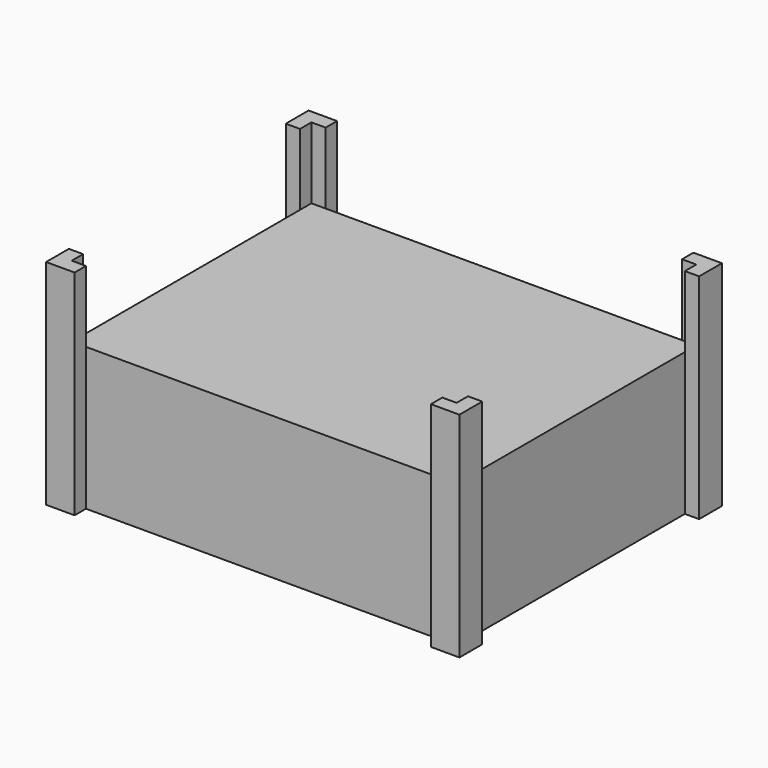
from build123d import *

# Parameters (mm, degrees)
F0_W     = 68.6
F0_H     = 53.4
F1_DEPTH = 25.4
F3_DEPTH = 38.1
F4_DEPTH = 38.1
F7_W     = 59.71
F7_H     = 48.32
F8_DEPTH = 20.32
F9_D     = 2.8448
F9_DEPTH = 9.525
F9_TIP   = 0.8546641445


with BuildPart() as f1:
    # F0 (on Top) → F1 (new body)
    with BuildSketch(Plane.XY):
        with Locations((-1.4553847134, -11.8884605348)):
            Rectangle(F0_W, F0_H)
    extrude(amount=F1_DEPTH)

    # F2 (on face) → F3 (join)
    with BuildSketch(Plane(origin=(0, 0, 0), x_dir=(1, 0, 0), z_dir=(0, 0, -1))):
        Polygon((-35.7553847134, 38.5884605348), (-33.2153847134, 38.5884605348), (-33.2153847134, 41.1284605348), (-38.2953847134, 41.1284605348), (-38.2953847134, 36.0484605348), (-35.7553847134, 36.0484605348), align=None)
    extrude(amount=-F3_DEPTH)

    # F2 (on face) → F4 (join)
    with BuildSketch(Plane(origin=(0, 0, 0), x_dir=(1, 0, 0), z_dir=(0, 0, -1))):
        Polygon((30.3046152866, 41.1284605348), (30.3046152866, 38.5884605348), (32.8446152866, 38.5884605348), (32.8446152866, 36.0484605348), (35.3846152866, 36.0484605348), (35.3846152866, 41.1284605348), align=None)
        Polygon((-35.7553847134, -14.8115394652), (-35.7553847134, -12.2715394652), (-38.2953847134, -12.2715394652), (-38.2953847134, -17.3515394652), (-33.2153847134, -17.3515394652), (-33.2153847134, -14.8115394652), align=None)
        Polygon((35.3846152866, -12.2715394652), (32.8446152866, -12.2715394652), (32.8446152866, -14.8115394652), (30.3046152866, -14.8115394652), (30.3046152866, -17.3515394652), (35.3846152866, -17.3515394652), align=None)
    extrude(amount=-F4_DEPTH)

    # F7 (on Top) → F8 (cut)
    with BuildSketch(Plane.XY):
        with Locations((0.4496152866, -11.8884605348)):
            Rectangle(F7_W, F7_H)
    extrude(amount=F8_DEPTH, mode=Mode.SUBTRACT)

    # F9
    with Locations(Plane(origin=(0, 0, 0), x_dir=(1, 0, 0), z_dir=(0, 0, -1))):
        with Locations((-32.5803847134, 30.1447131348), (-32.5803847134, -6.3677868652)):
            Hole(F9_D / 2, depth=F9_DEPTH)
            with Locations((0, 0, -(F9_DEPTH + F9_TIP / 2))):  # 118° drill point
                Cone(0, F9_D / 2, F9_TIP, mode=Mode.SUBTRACT)


solid = f1.part
